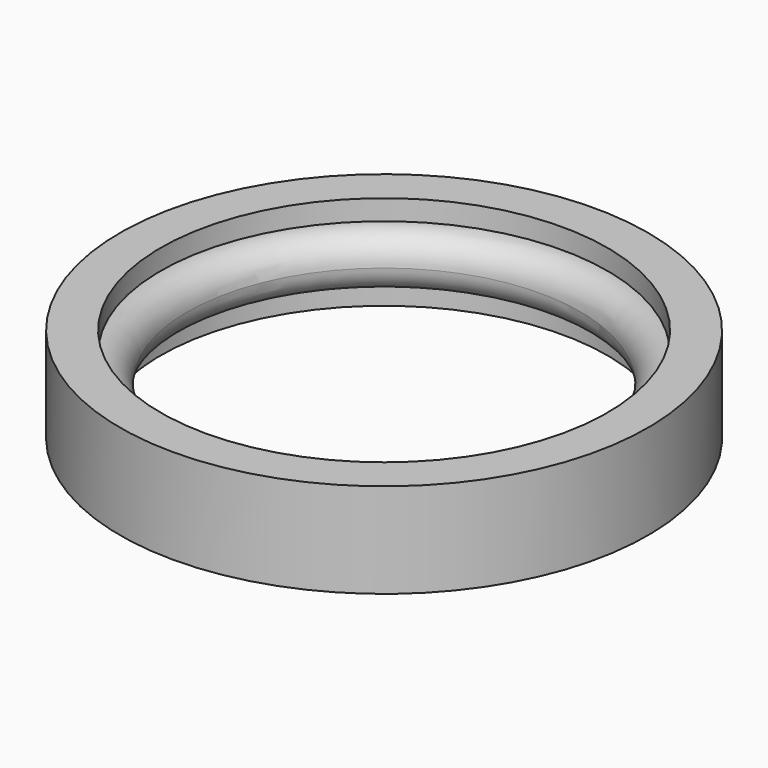
from build123d import *


with BuildPart() as f1:
    # F0 (on Right) → F1 (revolve)
    with BuildSketch(Plane.YZ):
        with BuildLine():
            Line((-2.731482, 1.75), (-2.731482, 0))
            Line((-2.731482, 0), (-2.731482, -1.75))
            Line((-2.731482, -1.75), (-1.231482, -1.75))
            Line((-1.231482, -1.75), (-1.231482, -1))
            ThreePointArc((-1.231482, -1), (-0.524375, -0.707107), (-0.231482, 0))
            ThreePointArc((-0.231482, 0), (-0.524375, 0.707107), (-1.231482, 1))
            Line((-1.231482, 1), (-1.231482, 1.75))
            Line((-1.231482, 1.75), (-2.731482, 1.75))
        make_face()
    revolve(axis=Axis((0, 7.018518, 0.16714), (0, 0, -1)))


solid = f1.part
